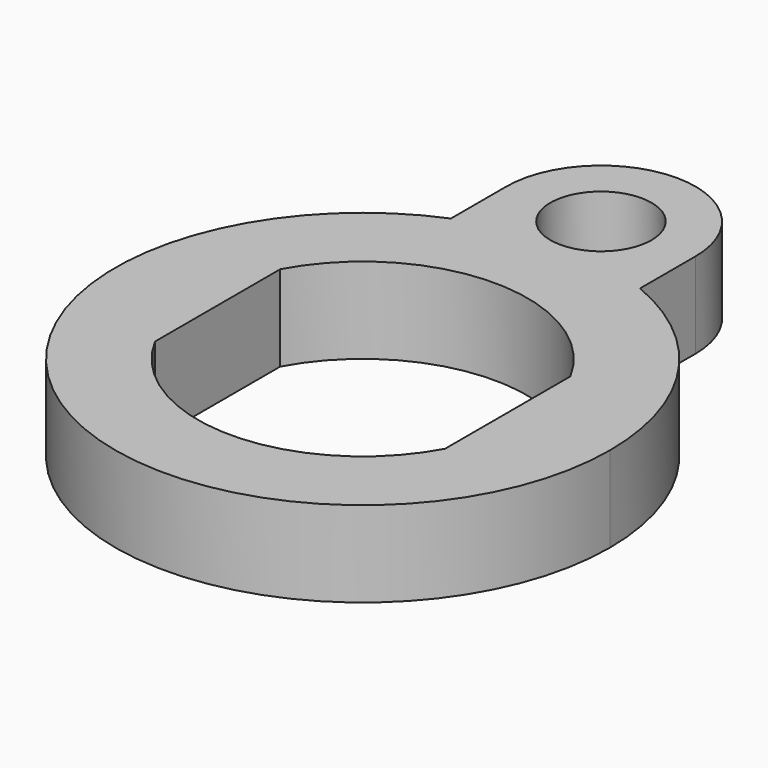
from build123d import *

# Parameters (mm, degrees)
F1_DEPTH = 1.651


with BuildPart() as f1:
    # F0 (on Top) → F1 (new body)
    with BuildSketch(Plane.XY):
        with BuildLine():
            ThreePointArc((1.8213407221, 13.5264450688), (0.9284865025, 13.7970918303), (2e-09, 13.8884764319))
            ThreePointArc((2e-09, 13.8884764319), (-0.9284865005, 13.7970918307), (-1.8213407221, 13.5264450688))
            ThreePointArc((-1.8213407221, 13.5264450688), (-2.6464382726, 5.1664599565), (4.7625, 9.1259764319))
            ThreePointArc((4.7625, 9.1259764319), (3.9595164755, 11.7724147045), (1.8213407221, 13.5264450688))
        make_face()
        with BuildLine():
            ThreePointArc((-2.794, 10.634017877), (0, 12.3009764319), (2.794, 10.634017877))
            Line((2.794, 10.634017877), (2.794, 7.6179349869))
            ThreePointArc((2.794, 7.6179349869), (0, 5.9509764319), (-2.794, 7.6179349869))
            Line((-2.794, 7.6179349869), (-2.794, 10.634017877))
        make_face(mode=Mode.SUBTRACT)
        with BuildLine():
            ThreePointArc((-1.8213407221, 13.5264450688), (-0.9284865005, 13.7970918307), (2e-09, 13.8884764319))
            ThreePointArc((2e-09, 13.8884764319), (0.9284865025, 13.7970918303), (1.8213407221, 13.5264450688))
            Line((1.8213407221, 13.5264450688), (1.8213407221, 14.8630785568))
            ThreePointArc((1.8213407221, 14.8630785568), (0, 16.6844192788), (-1.8213407221, 14.8630785568))
            Line((-1.8213407221, 14.8630785568), (-1.8213407221, 13.5264450688))
        make_face()
        with BuildLine():
            ThreePointArc((2e-09, 13.8884764319), (-0.6891477722, 15.5522263275), (0.9746021248, 14.8630785568))
            ThreePointArc((0.9746021248, 14.8630785568), (0.6891477722, 14.173930786), (2e-09, 13.8884764319))
        make_face(mode=Mode.SUBTRACT)
    extrude(amount=F1_DEPTH)


solid = f1.part
